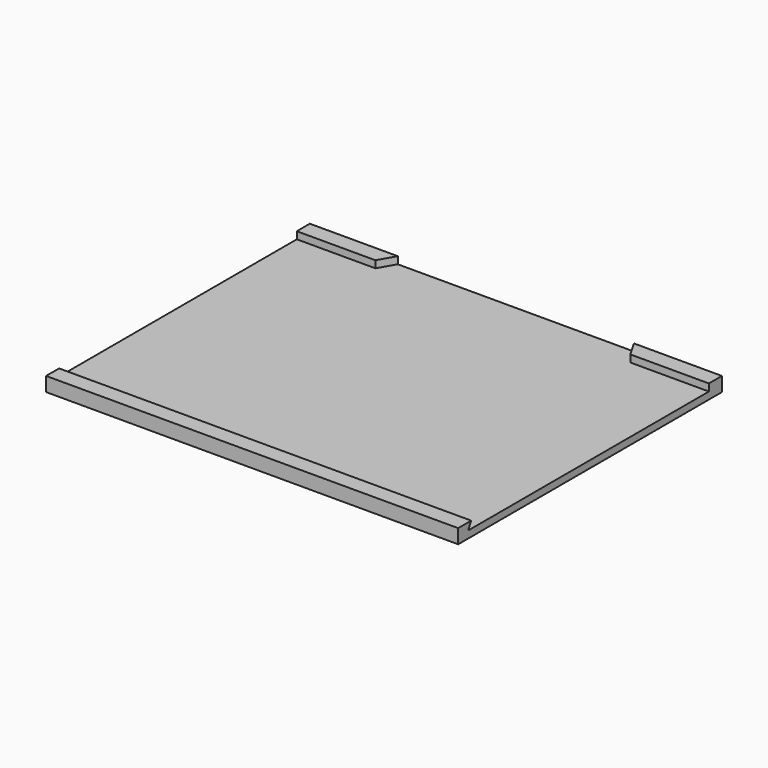
from build123d import *

# Parameters (mm, degrees)
SKETCH005_W       = 220
SKETCH005_H       = 160.4
PAD004_DEPTH      = 4
PAD004_FACE3_W    = 220
PAD004_FACE3_H    = 4
PAD005_DEPTH      = 6.8
PAD005_FACE8_W    = 6.8
PAD005_FACE8_H    = 220
PAD006_DEPTH      = 3.6
PAD006_FACE8_W    = 220
PAD006_FACE8_H    = 3.6
PAD007_DEPTH      = 2
POCKET002_DEPTH   = 220.001
POCKET002_FACE1_W = 220
POCKET002_FACE1_H = 4
PAD008_DEPTH      = 8.8
PAD009_DEPTH      = 3.6
SKETCH008_W       = 220
SKETCH008_H       = 160.4
POCKET003_DEPTH   = 0.2
POCKET006_DEPTH   = 0.2


with BuildPart() as part:
    # Sketch005 → Pad004 (new body)
    with BuildSketch(Plane.XY):
        with Locations((110, 80.2)):
            Rectangle(SKETCH005_W, SKETCH005_H)
    extrude(amount=-PAD004_DEPTH)

    # Pad004 Face3 → Pad005 (add)
    with BuildSketch(Plane(origin=(110, 0, -2), x_dir=(-1, 0, 0), z_dir=(0, -1, 0))):
        Rectangle(PAD004_FACE3_W, PAD004_FACE3_H)
    extrude(amount=PAD005_DEPTH)

    # Pad005 Face8 → Pad006 (add)
    with BuildSketch(Plane(origin=(110, -3.4, 0), x_dir=(0, 1, 0), z_dir=(0, 0, 1))):
        Rectangle(PAD005_FACE8_W, PAD005_FACE8_H)
    extrude(amount=PAD006_DEPTH)

    # Pad006 Face8 → Pad007 (add)
    with BuildSketch(Plane(origin=(110, 0, 1.8), x_dir=(1, 0, 0), z_dir=(0, 1, 0))):
        Rectangle(PAD006_FACE8_W, PAD006_FACE8_H)
    extrude(amount=PAD007_DEPTH)

    # Sketch006 (on Face9 of Pad007) → Pocket002 (cut, through all)
    with BuildSketch(Plane.YZ.offset(220)):
        Polygon((-0.1, 0), (2, 0), (2, 3.6), (1.9, 3.6), align=None)
    extrude(amount=-POCKET002_DEPTH, mode=Mode.SUBTRACT)

    # Pocket002 Face1 → Pad008 (add)
    with BuildSketch(Plane(origin=(110, 160.4, -2), x_dir=(1, 0, 0), z_dir=(0, 1, 0))):
        Rectangle(POCKET002_FACE1_W, POCKET002_FACE1_H)
    extrude(amount=PAD008_DEPTH)

    # Sketch007 (on Face10 of Pad008) → Pad009 (join)
    with BuildSketch(Plane.XY):
        Polygon((0, 169.2), (0, 160.5), (41.942265, 160.5), (46.965212, 169.2), align=None)
        Polygon((173.034788, 169.2), (220, 169.2), (220, 160.5), (178.057735, 160.5), align=None)
    extrude(amount=PAD009_DEPTH)

    # Sketch008 (on Face5 of Pad009) → Pocket003 (cut)
    with BuildSketch(Plane.XY):
        with Locations((110, 80.2)):
            Rectangle(SKETCH008_W, SKETCH008_H)
    extrude(amount=-POCKET003_DEPTH, mode=Mode.SUBTRACT)

    # Pocket003 Face2 → Pocket006 (cut)
    with BuildSketch(Plane(origin=(110, 164.712225, 0), x_dir=(0, 1, 0), z_dir=(0, 0, 1))):
        Polygon((-4.312225, 110), (-4.312225, -110), (-4.212225, -110), (-4.212225, -68.057735), (4.487775, -63.034788), (4.487775, 63.034788), (-4.212225, 68.057735), (-4.212225, 110), align=None)
    extrude(amount=-POCKET006_DEPTH, mode=Mode.SUBTRACT)


solid = part.part
